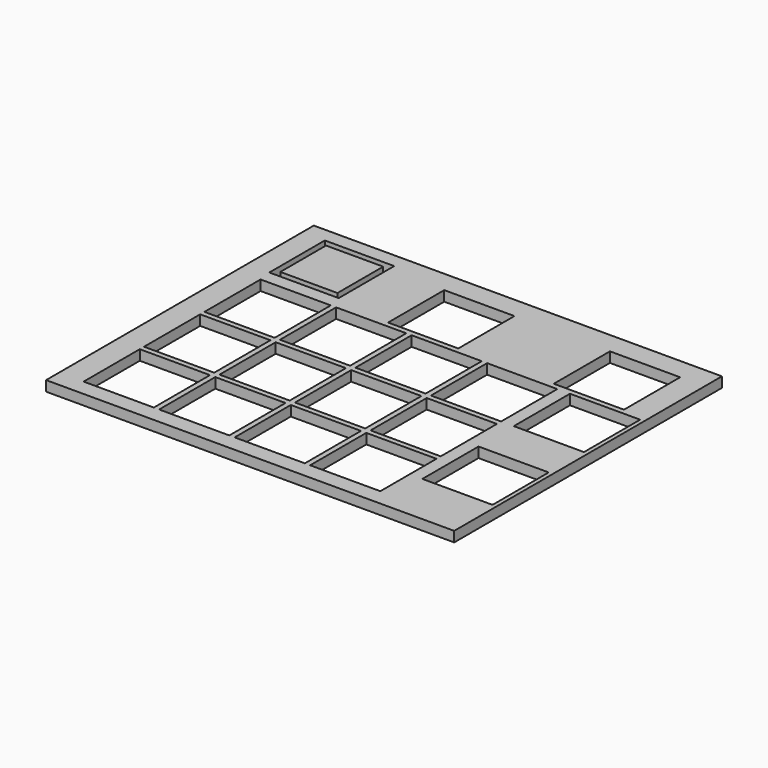
from build123d import *

# Parameters (mm, degrees)
F0_W      = 100
F0_H      = 82
F1_DEPTH  = 2.5
F2_W      = 17.2
F2_H      = 17.2
F3_DEPTH  = 25
F2_W_2    = 17
F2_H_2    = 17
F2_W_3    = 14
F2_H_3    = 14
F4_DEPTH  = 25
F5_W      = 17.2
F5_H      = 17.2
F6_DEPTH  = 25
F7_W      = 17.2
F7_H      = 17.2
F8_DEPTH  = 25
F9_W      = 17.2
F9_H      = 17.2
F10_DEPTH = 25
F11_W     = 17.2
F11_H     = 17.2
F12_DEPTH = 25
F13_W     = 17.2
F13_H     = 17.2
F14_DEPTH = 25
F15_W     = 17.2
F15_H     = 17.2
F16_DEPTH = 25


with BuildPart() as f1:
    # F0 (on Top) → F1 (new body)
    with BuildSketch(Plane.XY):
        with Locations((-39.136762, -41)):
            Rectangle(F0_W, F0_H)
    extrude(amount=F1_DEPTH)

    # F2 (on face) → F3 (cut)
    with BuildSketch(Plane.XY.offset(2.5)):
        with Locations((-74.536762, -69.4)):
            Rectangle(F2_W, F2_H)
    extrude(amount=-F3_DEPTH, mode=Mode.SUBTRACT)

    # F2 (on face) → F4 (cut)
    with BuildSketch(Plane.XY.offset(2.5)):
        with Locations((-74.536762, -69.4)):
            Rectangle(F2_W, F2_H)
        with Locations((-74.536762, -50.9)):
            Rectangle(F2_W, F2_H)
        with Locations((-74.536762, -32.4)):
            Rectangle(F2_W, F2_H)
        with Locations((-75.136762, -12)):
            Rectangle(F2_W_2, F2_H_2)
        with Locations((-75.136762, -12)):
            Rectangle(F2_W_3, F2_H_3, mode=Mode.SUBTRACT)
    extrude(amount=-F4_DEPTH, mode=Mode.SUBTRACT)

    # F5 (on face) → F6 (cut)
    with BuildSketch(Plane.XY.offset(2.5)):
        with Locations((-56.036762, -69.4)):
            Rectangle(F5_W, F5_H)
        with Locations((-37.536762, -69.4)):
            Rectangle(F5_W, F5_H)
        with Locations((-19.036762, -69.4)):
            Rectangle(F5_W, F5_H)
    extrude(amount=-F6_DEPTH, mode=Mode.SUBTRACT)

    # F7 (on face) → F8 (cut)
    with BuildSketch(Plane.XY.offset(2.5)):
        with Locations((-56.036762, -50.9)):
            Rectangle(F7_W, F7_H)
        with Locations((-56.036762, -32.4)):
            Rectangle(F7_W, F7_H)
        with Locations((-37.536762, -50.9)):
            Rectangle(F7_W, F7_H)
        with Locations((-37.536762, -32.4)):
            Rectangle(F7_W, F7_H)
    extrude(amount=-F8_DEPTH, mode=Mode.SUBTRACT)

    # F9 (on face) → F10 (cut)
    with BuildSketch(Plane.XY.offset(2.5)):
        with Locations((-19.036762, -50.9)):
            Rectangle(F9_W, F9_H)
        with Locations((-19.036762, -32.4)):
            Rectangle(F9_W, F9_H)
    extrude(amount=-F10_DEPTH, mode=Mode.SUBTRACT)

    # F11 (on face) → F12 (cut)
    with BuildSketch(Plane.XY.offset(2.5)):
        with Locations((1.263238, -60.4)):
            Rectangle(F11_W, F11_H)
        with Locations((1.263238, -32.4)):
            Rectangle(F11_W, F11_H)
    extrude(amount=-F12_DEPTH, mode=Mode.SUBTRACT)

    # F13 (on face) → F14 (cut)
    with BuildSketch(Plane.XY.offset(2.5)):
        with Locations((-44.336762, -13.9)):
            Rectangle(F13_W, F13_H)
    extrude(amount=-F14_DEPTH, mode=Mode.SUBTRACT)

    # F15 (on face) → F16 (cut)
    with BuildSketch(Plane.XY.offset(2.5)):
        with Locations((-3.736762, -13.9)):
            Rectangle(F15_W, F15_H)
    extrude(amount=-F16_DEPTH, mode=Mode.SUBTRACT)


solid = f1.part
